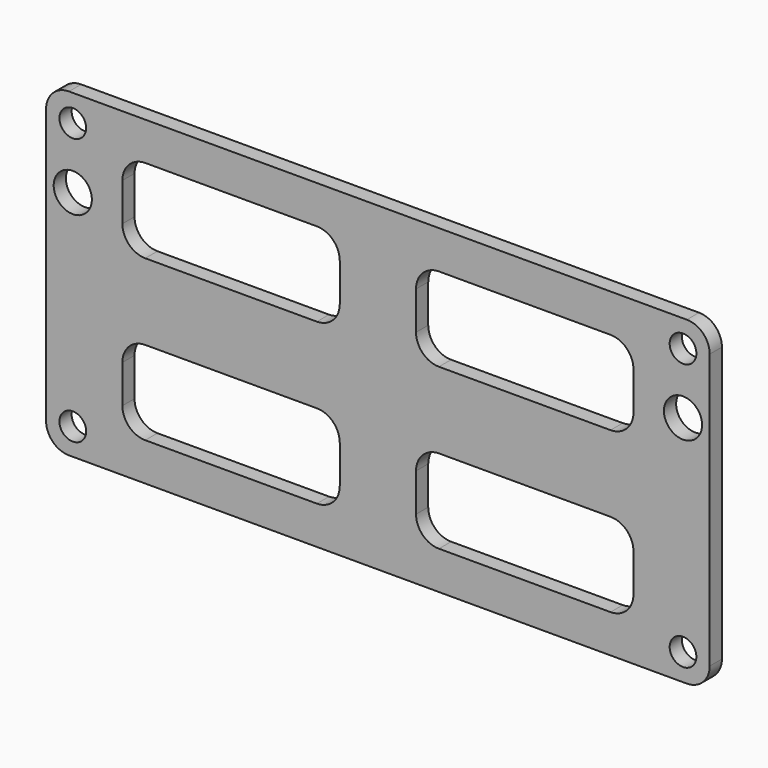
from build123d import *

# Parameters (mm, degrees)
F0_W     = 87
F0_H     = 42
F0_R     = 1.75
F0_W_2   = 28.5
F0_H_2   = 11
F0_R_2   = 2.5
F1_DEPTH = 2
F2_R     = 3


with BuildPart() as f1:
    # F0 (on Front) → F1 (new body)
    with BuildSketch(Plane.XZ):
        Rectangle(F0_W, F0_H)
        with Locations((-40, -17.5)):
            Circle(F0_R, mode=Mode.SUBTRACT)
        with Locations((-19.25, -10.5)):
            Rectangle(F0_W_2, F0_H_2, mode=Mode.SUBTRACT)
        with Locations((40, -17.5)):
            Circle(F0_R, mode=Mode.SUBTRACT)
        with Locations((19.25, -10.5)):
            Rectangle(F0_W_2, F0_H_2, mode=Mode.SUBTRACT)
        with Locations((-40, 9.5)):
            Circle(F0_R_2, mode=Mode.SUBTRACT)
        with Locations((-40, 17.5)):
            Circle(F0_R, mode=Mode.SUBTRACT)
        with Locations((-19.25, 10.5)):
            Rectangle(F0_W_2, F0_H_2, mode=Mode.SUBTRACT)
        with Locations((40, 9.5)):
            Circle(F0_R_2, mode=Mode.SUBTRACT)
        with Locations((19.25, 10.5)):
            Rectangle(F0_W_2, F0_H_2, mode=Mode.SUBTRACT)
        with Locations((40, 17.5)):
            Circle(F0_R, mode=Mode.SUBTRACT)
    extrude(amount=F1_DEPTH)

    # F2
    f2_edges = [f1.edges().sort_by_distance(p)[0] for p in [
        (-43.5, -1, 21),
        (-43.5, -1, -21),
        (43.5, -1, -21),
        (43.5, -1, 21),
        (-5, -1, 16),
        (33.5, -1, 16),
        (-33.5, -1, 16),
        (-33.5, -1, -5),
        (5, -1, -5),
        (5, -1, 16),
        (-33.5, -1, -16),
        (-33.5, -1, 5),
        (5, -1, 5),
        (5, -1, -16),
        (33.5, -1, 5),
        (33.5, -1, -16),
        (-5, -1, 5),
        (-5, -1, -5),
        (-5, -1, -16),
        (33.5, -1, -5),
    ]]
    fillet(f2_edges, radius=F2_R)


solid = f1.part
